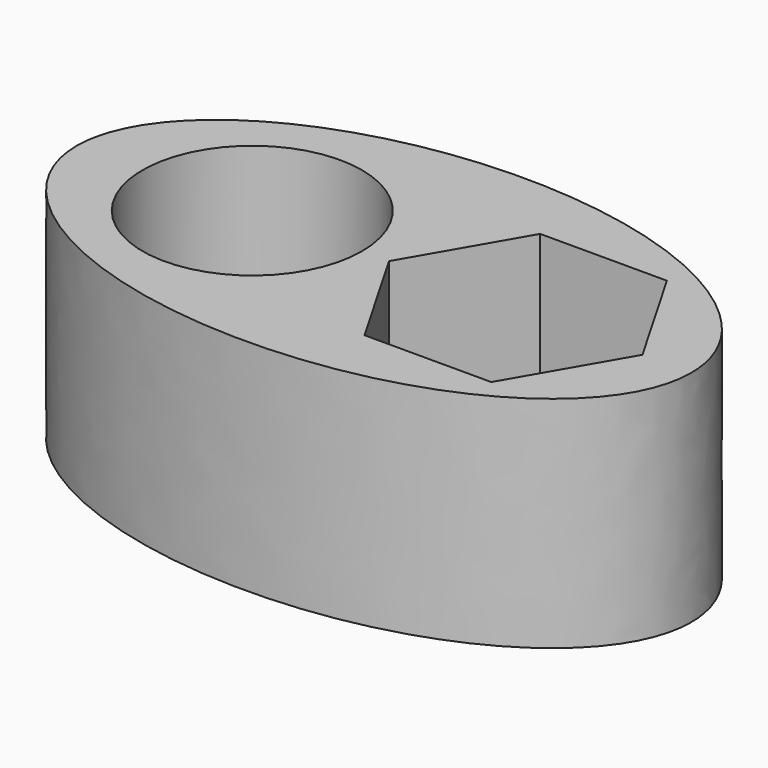
from build123d import *

# Parameters (mm, degrees)
SKETCH_R      = 2.5
EXTRUDE_DEPTH = 5


with BuildPart() as part:
    # Sketch (on Part) → Extrude (new body)
    with BuildSketch(Plane.XY):
        with BuildLine():
            add(Edge.make_bspline(
                [(-4, 0), (-4, -6.928203), (6.5, -3.464102), (17, 0), (6.5, 3.464102), (-4, 6.928203), (-4, 0)],
                knots=[0, 0, 0, 2.094395, 2.094395, 4.18879, 4.18879, 6.283185, 6.283185, 6.283185], degree=2, weights=[1, 0.5, 1, 0.5, 1, 0.5, 1]))
        make_face()
        Circle(SKETCH_R, mode=Mode.SUBTRACT)
        Polygon((7.443376, -2.5), (8.886751, 0), (7.443376, 2.5), (4.556624, 2.5), (3.113249, 0), (4.556624, -2.5), align=None, mode=Mode.SUBTRACT)
    extrude(amount=EXTRUDE_DEPTH)


solid = part.part
